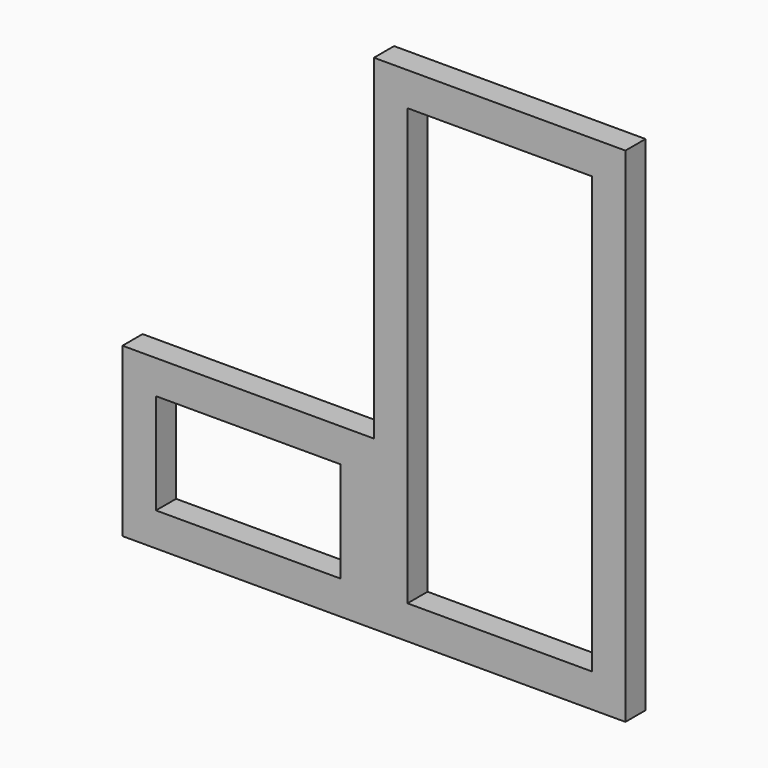
from build123d import *

# Parameters (mm, degrees)
F0_W     = 300
F0_H     = 600
F1_DEPTH = 30
F2_W     = 220
F2_H     = 520
F3_DEPTH = 35
F4_W     = 300
F4_H     = 200
F5_DEPTH = 30
F6_W     = 220
F6_H     = 120
F7_DEPTH = 40


with BuildPart() as f1:
    # F0 (on Front) → F1 (new body)
    with BuildSketch(Plane.XZ):
        with Locations((150, 300)):
            Rectangle(F0_W, F0_H)
    extrude(amount=-F1_DEPTH)

    # F2 (on face) → F3 (cut)
    with BuildSketch(Plane.XZ):
        with Locations((150, 300)):
            Rectangle(F2_W, F2_H)
    extrude(amount=-F3_DEPTH, mode=Mode.SUBTRACT)

    # F4 (on Front) → F5 (join)
    with BuildSketch(Plane.XZ):
        with Locations((-150, 100)):
            Rectangle(F4_W, F4_H)
    extrude(amount=-F5_DEPTH)

    # F6 (on face) → F7 (cut)
    with BuildSketch(Plane.XZ):
        with Locations((-150, 100)):
            Rectangle(F6_W, F6_H)
    extrude(amount=-F7_DEPTH, mode=Mode.SUBTRACT)


solid = f1.part
